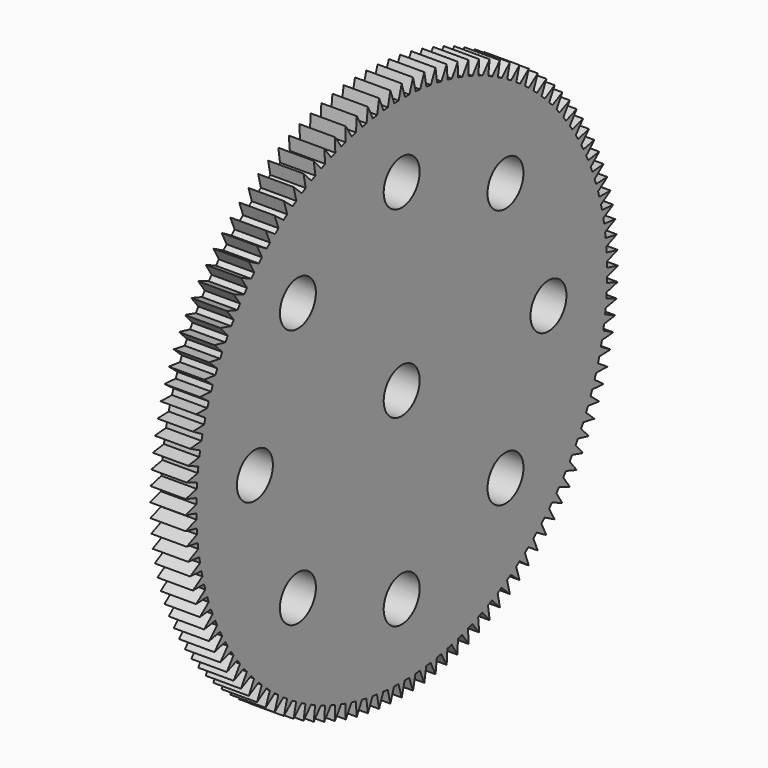
from build123d import *

# Parameters (mm, degrees)
F0_R     = 45.72
F0_R_2   = 4.0005
F1_DEPTH = 6.2992
F3_DEPTH = 6.2992


with BuildPart() as f1:
    # F0 (on Right) → F1 (new body)
    with BuildSketch(Plane.YZ):
        Circle(F0_R)
        with Locations((-23.098343, -23.098343)):
            Circle(F0_R_2, mode=Mode.SUBTRACT)
        with Locations((0, -32.66599)):
            Circle(F0_R_2, mode=Mode.SUBTRACT)
        with Locations((23.098343, -23.098343)):
            Circle(F0_R_2, mode=Mode.SUBTRACT)
        with Locations((-32.66599, 0)):
            Circle(F0_R_2, mode=Mode.SUBTRACT)
        with Locations((-23.098343, 23.098343)):
            Circle(F0_R_2, mode=Mode.SUBTRACT)
        Circle(F0_R_2, mode=Mode.SUBTRACT)
        with Locations((32.66599, 0)):
            Circle(F0_R_2, mode=Mode.SUBTRACT)
        with Locations((0, 32.66599)):
            Circle(F0_R_2, mode=Mode.SUBTRACT)
        with Locations((23.098343, 23.098343)):
            Circle(F0_R_2, mode=Mode.SUBTRACT)
    extrude(amount=F1_DEPTH)

    # F2 (on Right) → F3 (join)
    with BuildSketch(Plane.YZ):
        Polygon((41.021371, -20.131775), (40.374124, -21.40207), (42.87931, -21.848099), align=None)
        Polygon((42.018769, -17.957293), (41.43889, -19.259721), (43.963986, -19.574028), align=None)
        Polygon((42.900995, -15.73359), (42.390076, -17.064582), (44.92816, -17.246305), align=None)
        Polygon((43.665634, -13.466763), (43.225073, -14.822671), (45.76919, -14.871311), align=None)
        Polygon((44.310587, -11.163025), (43.941593, -12.540131), (46.484769, -12.455556), align=None)
        Polygon((44.834089, -8.82869), (44.537672, -10.22322), (47.072937, -10.005662), align=None)
        Polygon((45.234703, -6.470155), (45.011677, -7.878288), (47.532081, -7.528342), align=None)
        Polygon((45.511332, -4.093887), (45.362308, -5.511762), (47.860943, -5.030388), align=None)
        Polygon((45.663218, -1.706397), (45.588604, -3.130128), (48.058621, -2.518646), align=None)
        Polygon((45.689944, 0.68577), (45.689944, -0.739916), (48.124574, 0), align=None)
        Polygon((45.591437, 3.076057), (45.666052, 1.652325), (48.058621, 2.518646), align=None)
        Polygon((45.367967, 5.457913), (45.516992, 4.040037), (47.860943, 5.030388), align=None)
        Polygon((45.020147, 7.824809), (45.243173, 6.416676), (47.532081, 7.528342), align=None)
        Polygon((44.54893, 10.170258), (44.845346, 8.775727), (47.072937, 10.005662), align=None)
        Polygon((43.955607, 12.48783), (44.324601, 11.110724), (46.484769, 12.455556), align=None)
        Polygon((43.241805, 14.771175), (43.682366, 13.415268), (45.76919, 14.871311), align=None)
        Polygon((42.40948, 17.014033), (42.9204, 15.683041), (44.92816, 17.246305), align=None)
        Polygon((41.460913, 19.210256), (42.040792, 17.907828), (43.963986, 19.574028), align=None)
        Polygon((40.398705, 21.353826), (41.045953, 20.083531), (42.87931, 21.848099), align=None)
        Polygon((39.225767, 23.438866), (39.93861, 22.204186), (41.677104, 24.062287), align=None)
        Polygon((37.945314, 25.459662), (38.721798, 24.263982), (40.360664, 26.210522), align=None)
        Polygon((36.560856, 27.410675), (37.398853, 26.257271), (38.933598, 28.286915), align=None)
        Polygon((35.076187, 29.286557), (35.9734, 28.178591), (37.399818, 30.285776), align=None)
        Polygon((33.495376, 31.082166), (34.449346, 30.022676), (35.763528, 32.201625), align=None)
        Polygon((31.822757, 32.792582), (32.830869, 31.78447), (34.029213, 34.029213), align=None)
        Polygon((30.062914, 34.413115), (31.122404, 33.459145), (32.201625, 35.763528), align=None)
        Polygon((28.22067, 35.939324), (29.328636, 35.042112), (30.285776, 37.399818), align=None)
        Polygon((26.301076, 37.367027), (27.45448, 36.52903), (28.286915, 38.933598), align=None)
        Polygon((24.309392, 38.692308), (25.505073, 37.915825), (26.210522, 40.360664), align=None)
        Polygon((22.251078, 39.911537), (23.485758, 39.198695), (24.062287, 41.677104), align=None)
        Polygon((20.131775, 41.021371), (21.40207, 40.374124), (21.848099, 42.87931), align=None)
        Polygon((17.957293, 42.018769), (19.259721, 41.43889), (19.574028, 43.963986), align=None)
        Polygon((15.73359, 42.900995), (17.064582, 42.390076), (17.246305, 44.92816), align=None)
        Polygon((13.466763, 43.665634), (14.822671, 43.225073), (14.871311, 45.76919), align=None)
        Polygon((11.163025, 44.310587), (12.540131, 43.941593), (12.455556, 46.484769), align=None)
        Polygon((8.82869, 44.834089), (10.22322, 44.537672), (10.005662, 47.072937), align=None)
        Polygon((6.470155, 45.234703), (7.878288, 45.011677), (7.528342, 47.532081), align=None)
        Polygon((4.093887, 45.511332), (5.511762, 45.362308), (5.030388, 47.860943), align=None)
        Polygon((1.706397, 45.663218), (3.130128, 45.588604), (2.518646, 48.058621), align=None)
        Polygon((-0.68577, 45.689944), (0.739916, 45.689944), (0, 48.124574), align=None)
        Polygon((-3.076057, 45.591437), (-1.652325, 45.666052), (-2.518646, 48.058621), align=None)
        Polygon((-5.457913, 45.367967), (-4.040037, 45.516992), (-5.030388, 47.860943), align=None)
        Polygon((-7.824809, 45.020147), (-6.416676, 45.243173), (-7.528342, 47.532081), align=None)
        Polygon((-10.170258, 44.54893), (-8.775727, 44.845346), (-10.005662, 47.072937), align=None)
        Polygon((-12.48783, 43.955607), (-11.110724, 44.324601), (-12.455556, 46.484769), align=None)
        Polygon((-14.771175, 43.241805), (-13.415268, 43.682366), (-14.871311, 45.76919), align=None)
        Polygon((-17.014033, 42.40948), (-15.683041, 42.9204), (-17.246305, 44.92816), align=None)
        Polygon((-19.210256, 41.460913), (-17.907828, 42.040792), (-19.574028, 43.963986), align=None)
        Polygon((-21.353826, 40.398705), (-20.083531, 41.045953), (-21.848099, 42.87931), align=None)
        Polygon((-23.438866, 39.225767), (-22.204186, 39.93861), (-24.062287, 41.677104), align=None)
        Polygon((-25.459662, 37.945314), (-24.263982, 38.721798), (-26.210522, 40.360664), align=None)
        Polygon((-27.410675, 36.560856), (-26.257271, 37.398853), (-28.286915, 38.933598), align=None)
        Polygon((-29.286557, 35.076187), (-28.178591, 35.9734), (-30.285776, 37.399818), align=None)
        Polygon((-31.082166, 33.495376), (-30.022676, 34.449346), (-32.201625, 35.763528), align=None)
        Polygon((-32.792582, 31.822757), (-31.78447, 32.830869), (-34.029213, 34.029213), align=None)
        Polygon((-34.413115, 30.062914), (-33.459145, 31.122404), (-35.763528, 32.201625), align=None)
        Polygon((-35.939324, 28.22067), (-35.042112, 29.328636), (-37.399818, 30.285776), align=None)
        Polygon((-37.367027, 26.301076), (-36.52903, 27.45448), (-38.933598, 28.286915), align=None)
        Polygon((-38.692308, 24.309392), (-37.915825, 25.505073), (-40.360664, 26.210522), align=None)
        Polygon((-39.911537, 22.251078), (-39.198695, 23.485758), (-41.677104, 24.062287), align=None)
        Polygon((-41.021371, 20.131775), (-40.374124, 21.40207), (-42.87931, 21.848099), align=None)
        Polygon((-42.018769, 17.957293), (-41.43889, 19.259721), (-43.963986, 19.574028), align=None)
        Polygon((-42.900995, 15.73359), (-42.390076, 17.064582), (-44.92816, 17.246305), align=None)
        Polygon((-43.665634, 13.466763), (-43.225073, 14.822671), (-45.76919, 14.871311), align=None)
        Polygon((-44.310587, 11.163025), (-43.941593, 12.540131), (-46.484769, 12.455556), align=None)
        Polygon((-44.834089, 8.82869), (-44.537672, 10.22322), (-47.072937, 10.005662), align=None)
        Polygon((-45.234703, 6.470155), (-45.011677, 7.878288), (-47.532081, 7.528342), align=None)
        Polygon((-45.511332, 4.093887), (-45.362308, 5.511762), (-47.860943, 5.030388), align=None)
        Polygon((-45.663218, 1.706397), (-45.588604, 3.130128), (-48.058621, 2.518646), align=None)
        Polygon((-45.689944, -0.68577), (-45.689944, 0.739916), (-48.124574, 0), align=None)
        Polygon((-45.591437, -3.076057), (-45.666052, -1.652325), (-48.058621, -2.518646), align=None)
        Polygon((-45.367967, -5.457913), (-45.516992, -4.040037), (-47.860943, -5.030388), align=None)
        Polygon((-45.020147, -7.824809), (-45.243173, -6.416676), (-47.532081, -7.528342), align=None)
        Polygon((-44.54893, -10.170258), (-44.845346, -8.775727), (-47.072937, -10.005662), align=None)
        Polygon((-43.955607, -12.48783), (-44.324601, -11.110724), (-46.484769, -12.455556), align=None)
        Polygon((-43.241805, -14.771175), (-43.682366, -13.415268), (-45.76919, -14.871311), align=None)
        Polygon((-42.40948, -17.014033), (-42.9204, -15.683041), (-44.92816, -17.246305), align=None)
        Polygon((-41.460913, -19.210256), (-42.040792, -17.907828), (-43.963986, -19.574028), align=None)
        Polygon((-40.398705, -21.353826), (-41.045953, -20.083531), (-42.87931, -21.848099), align=None)
        Polygon((-39.225767, -23.438866), (-39.93861, -22.204186), (-41.677104, -24.062287), align=None)
        Polygon((-37.945314, -25.459662), (-38.721798, -24.263982), (-40.360664, -26.210522), align=None)
        Polygon((-36.560856, -27.410675), (-37.398853, -26.257271), (-38.933598, -28.286915), align=None)
        Polygon((-35.076187, -29.286557), (-35.9734, -28.178591), (-37.399818, -30.285776), align=None)
        Polygon((-33.495376, -31.082166), (-34.449346, -30.022676), (-35.763528, -32.201625), align=None)
        Polygon((-31.822757, -32.792582), (-32.830869, -31.78447), (-34.029213, -34.029213), align=None)
        Polygon((-30.062914, -34.413115), (-31.122404, -33.459145), (-32.201625, -35.763528), align=None)
        Polygon((-28.22067, -35.939324), (-29.328636, -35.042112), (-30.285776, -37.399818), align=None)
        Polygon((-26.301076, -37.367027), (-27.45448, -36.52903), (-28.286915, -38.933598), align=None)
        Polygon((-24.309392, -38.692308), (-25.505073, -37.915825), (-26.210522, -40.360664), align=None)
        Polygon((-22.251078, -39.911537), (-23.485758, -39.198695), (-24.062287, -41.677104), align=None)
        Polygon((-20.131775, -41.021371), (-21.40207, -40.374124), (-21.848099, -42.87931), align=None)
        Polygon((-17.957293, -42.018769), (-19.259721, -41.43889), (-19.574028, -43.963986), align=None)
        Polygon((-15.73359, -42.900995), (-17.064582, -42.390076), (-17.246305, -44.92816), align=None)
        Polygon((-13.466763, -43.665634), (-14.822671, -43.225073), (-14.871311, -45.76919), align=None)
        Polygon((-11.163025, -44.310587), (-12.540131, -43.941593), (-12.455556, -46.484769), align=None)
        Polygon((-8.82869, -44.834089), (-10.22322, -44.537672), (-10.005662, -47.072937), align=None)
        Polygon((-6.470155, -45.234703), (-7.878288, -45.011677), (-7.528342, -47.532081), align=None)
        Polygon((-4.093887, -45.511332), (-5.511762, -45.362308), (-5.030388, -47.860943), align=None)
        Polygon((-1.706397, -45.663218), (-3.130128, -45.588604), (-2.518646, -48.058621), align=None)
        Polygon((0.68577, -45.689944), (-0.739916, -45.689944), (0, -48.124574), align=None)
        Polygon((3.076057, -45.591437), (1.652325, -45.666052), (2.518646, -48.058621), align=None)
        Polygon((5.457913, -45.367967), (4.040037, -45.516992), (5.030388, -47.860943), align=None)
        Polygon((7.824809, -45.020147), (6.416676, -45.243173), (7.528342, -47.532081), align=None)
        Polygon((10.170258, -44.54893), (8.775727, -44.845346), (10.005662, -47.072937), align=None)
        Polygon((12.48783, -43.955607), (11.110724, -44.324601), (12.455556, -46.484769), align=None)
        Polygon((14.771175, -43.241805), (13.415268, -43.682366), (14.871311, -45.76919), align=None)
        Polygon((17.014033, -42.40948), (15.683041, -42.9204), (17.246305, -44.92816), align=None)
        Polygon((14.771175, -43.241805), (13.415268, -43.682366), (14.871311, -45.76919), align=None)
        Polygon((19.210256, -41.460913), (17.907828, -42.040792), (19.574028, -43.963986), align=None)
        Polygon((21.353826, -40.398705), (20.083531, -41.045953), (21.848099, -42.87931), align=None)
        Polygon((23.438866, -39.225767), (22.204186, -39.93861), (24.062287, -41.677104), align=None)
        Polygon((25.459662, -37.945314), (24.263982, -38.721798), (26.210522, -40.360664), align=None)
        Polygon((27.410675, -36.560856), (26.257271, -37.398853), (28.286915, -38.933598), align=None)
        Polygon((29.286557, -35.076187), (28.178591, -35.9734), (30.285776, -37.399818), align=None)
        Polygon((31.082166, -33.495376), (30.022676, -34.449346), (32.201625, -35.763528), align=None)
        Polygon((32.792582, -31.822757), (31.78447, -32.830869), (34.029213, -34.029213), align=None)
        Polygon((34.413115, -30.062914), (33.459145, -31.122404), (35.763528, -32.201625), align=None)
        Polygon((35.939324, -28.22067), (35.042112, -29.328636), (37.399818, -30.285776), align=None)
        Polygon((37.367027, -26.301076), (36.52903, -27.45448), (38.933598, -28.286915), align=None)
        Polygon((38.692308, -24.309392), (37.915825, -25.505073), (40.360664, -26.210522), align=None)
        Polygon((39.911537, -22.251078), (39.198695, -23.485758), (41.677104, -24.062287), align=None)
    extrude(amount=F3_DEPTH)


solid = f1.part
